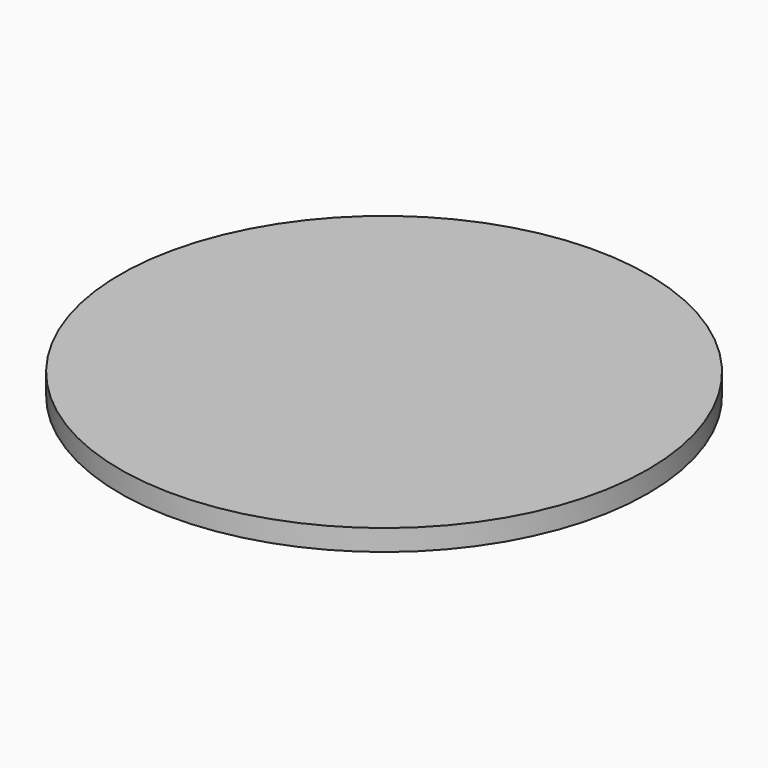
from build123d import *

# Parameters (mm, degrees)
SKETCH_R           = 50
PAD_DEPTH          = 4
POCKET_DEPTH       = 3
POLARPATTERN_COUNT = 3


with BuildPart() as part:
    # Sketch → Pad (new body)
    with BuildSketch(Plane.XY):
        Circle(SKETCH_R)
    extrude(amount=PAD_DEPTH)

    # Sketch001 → Pocket (cut)
    with BuildSketch(Plane(origin=(0, 0, 0), x_dir=(-1, 0, 0), z_dir=(0, 0, -1))):
        with BuildLine():
            ThreePointArc((-7.987816, -45.301157), (0, -46), (7.987816, -45.301157))
            Line((7.987816, -45.301157), (8.335113, -47.270772))
            ThreePointArc((-8.335113, -47.270772), (0, -48), (8.335113, -47.270772))
            Line((-7.987816, -45.301157), (-8.335113, -47.270772))
        make_face()
    pocket = extrude(amount=-POCKET_DEPTH, mode=Mode.SUBTRACT)

    # PolarPattern: Pocket ×3 about axis
    polarpattern_axis = Axis((0, 0, 0), (0, 0, -1))
    for i in range(1, POLARPATTERN_COUNT):
        add(pocket.rotate(polarpattern_axis, i * 360 / POLARPATTERN_COUNT), mode=Mode.SUBTRACT)


solid = part.part
